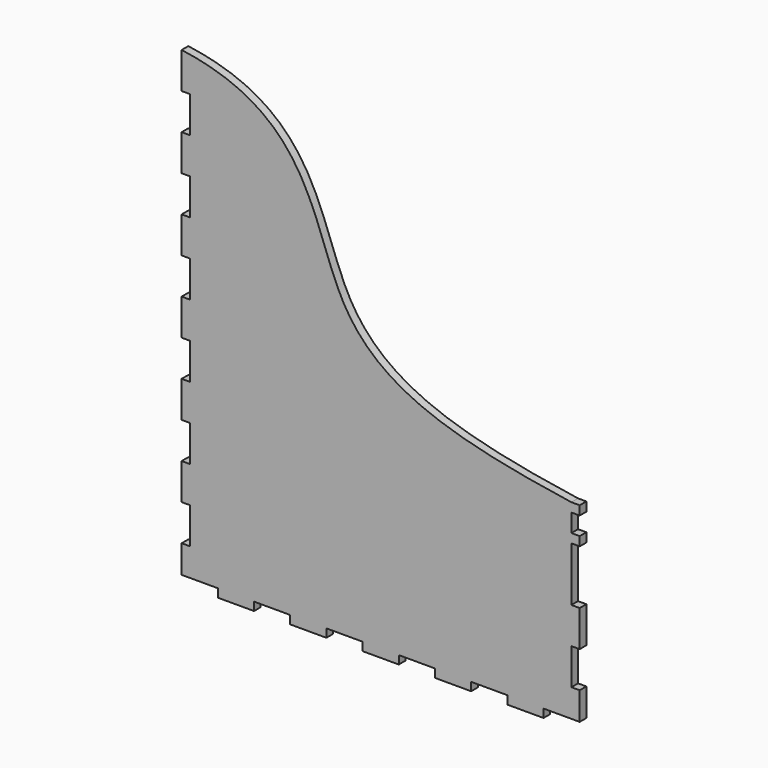
from build123d import *

# Parameters (mm, degrees)
F0_W     = 279.4
F0_H     = 330.2
F1_DEPTH = 5.842
F2_W     = 25.4
F2_H     = 5.842
F2_W_2   = 5.842
F2_H_2   = 25.4
F2_H_3   = 38.1
F3_DEPTH = 5.842
F5_DEPTH = 5.842
F6_W     = 5.842
F6_H     = 12.7
F7_DEPTH = 5.842
F8_R     = 3.175
F9_DEPTH = 5.842


with BuildPart() as f1:
    # F0 (on Front) → F1 (new body)
    with BuildSketch(Plane.XZ):
        with Locations((25.751306051, 40.8756073241)):
            Rectangle(F0_W, F0_H)
    extrude(amount=F1_DEPTH)

    # F2 (on face) → F3 (cut, through all)
    with BuildSketch(Plane.XZ.offset(5.842)):
        with Locations((152.751306051, -121.3033926759)):
            Rectangle(F2_W, F2_H)
        with Locations((101.951306051, -121.3033926759)):
            Rectangle(F2_W, F2_H)
        with Locations((51.151306051, -121.3033926759)):
            Rectangle(F2_W, F2_H)
        with Locations((0.351306051, -121.3033926759)):
            Rectangle(F2_W, F2_H)
        with Locations((-50.448693949, -121.3033926759)):
            Rectangle(F2_W, F2_H)
        with Locations((162.530306051, -86.1243926759)):
            Rectangle(F2_W_2, F2_H_2)
        with Locations((162.530306051, -28.9743926759)):
            Rectangle(F2_W_2, F2_H_3)
        with Locations((-111.027693949, -86.1243926759)):
            Rectangle(F2_W_2, F2_H_2)
        with Locations((-111.027693949, -35.3243926759)):
            Rectangle(F2_W_2, F2_H_2)
        with Locations((-111.027693949, 15.4756073241)):
            Rectangle(F2_W_2, F2_H_2)
        with Locations((-111.027693949, 66.2756073241)):
            Rectangle(F2_W_2, F2_H_2)
        with Locations((-111.027693949, 167.8756073241)):
            Rectangle(F2_W_2, F2_H_2)
        with Locations((-111.027693949, 117.0756073241)):
            Rectangle(F2_W_2, F2_H_2)
        with Locations((-101.248693949, -121.3033926759)):
            Rectangle(F2_W, F2_H)
    extrude(amount=-F3_DEPTH, mode=Mode.SUBTRACT)

    # F4 (on face) → F5 (cut, through all)
    with BuildSketch(Plane.XZ.offset(5.842)):
        with BuildLine():
            add(Edge.make_bspline(
                [(159.609306051, 15.4756073241), (73.376306051, 28.1756073241), (-24.4799113405, 59.233935121), (-21.873693949, 193.2756073241), (-113.948693949, 205.9756073241)],
                knots=[0, 0, 0, 0, 0.5067216409, 1, 1, 1, 1], degree=3))
            Line((159.609306051, 15.4756073241), (165.451306051, 15.4756073241))
            Line((165.451306051, 15.4756073241), (165.451306051, 205.9756073241))
            Line((165.451306051, 205.9756073241), (-113.948693949, 205.9756073241))
        make_face()
    extrude(amount=-F5_DEPTH, mode=Mode.SUBTRACT)

    # F6 (on face) → F7 (cut, through all)
    with BuildSketch(Plane.XZ.offset(5.842)):
        with Locations((162.530306051, 2.7756073241)):
            Rectangle(F6_W, F6_H)
    extrude(amount=-F7_DEPTH, mode=Mode.SUBTRACT)

    # F8 (on face) → F9 (cut, through all)
    with BuildSketch(Plane.XZ.offset(5.842)):
        with Locations((-37.748693949, 190.1641073241)):
            Circle(F8_R)
    extrude(amount=-F9_DEPTH, mode=Mode.SUBTRACT)


solid = f1.part
